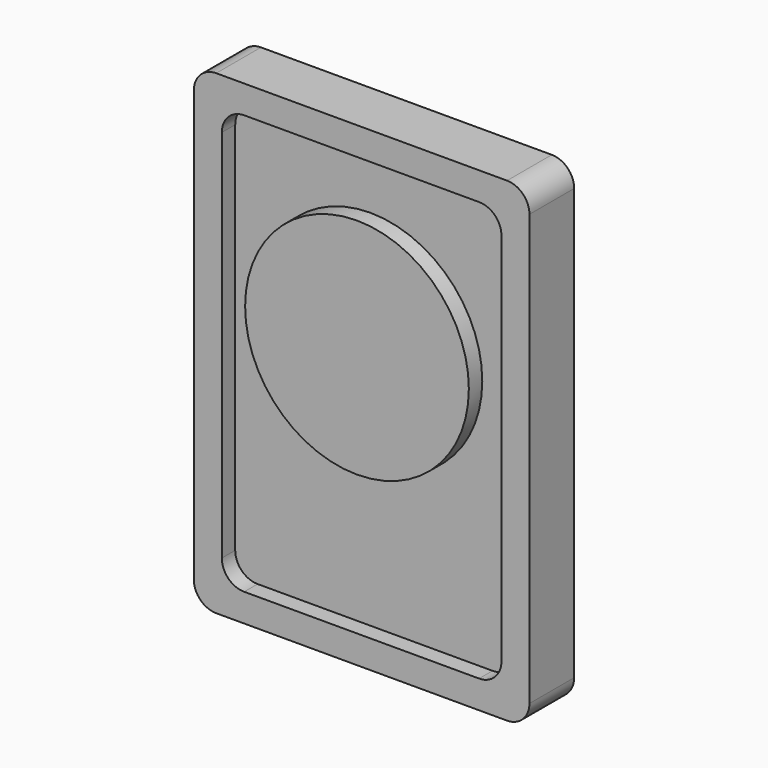
from build123d import *

# Parameters (mm, degrees)
F0_W     = 76.2
F0_H     = 107.95
F1_DEPTH = 12.7
F2_R     = 5.08
F3_W     = 63.5
F3_H     = 95.25
F3_R     = 25.4
F4_DEPTH = 3.81
F5_R     = 5.08


with BuildPart() as f1:
    # F0 (on Front) → F1 (new body)
    with BuildSketch(Plane.XZ):
        with Locations((-9.044009, -26.192475)):
            Rectangle(F0_W, F0_H)
    extrude(amount=F1_DEPTH)

    # F2
    f2_edges = [f1.edges().sort_by_distance(p)[0] for p in [
        (-47.144009, -6.35, 27.782525),
        (29.055991, -6.35, 27.782525),
        (29.055991, -6.35, -80.167475),
        (-47.144009, -6.35, -80.167475),
    ]]
    fillet(f2_edges, radius=F2_R)

    # F3 (on face) → F4 (cut)
    with BuildSketch(Plane.XZ.offset(12.7)):
        with Locations((-9.044009, -26.192475)):
            Rectangle(F3_W, F3_H)
        with Locations((-10.099306, -16.667475)):
            Circle(F3_R, mode=Mode.SUBTRACT)
    extrude(amount=-F4_DEPTH, mode=Mode.SUBTRACT)

    # F5
    f5_edges = [f1.edges().sort_by_distance(p)[0] for p in [
        (-40.794009, -10.795, 21.432525),
        (22.705991, -10.795, 21.432525),
        (22.705991, -10.795, -73.817475),
        (-40.794009, -10.795, -73.817475),
    ]]
    fillet(f5_edges, radius=F5_R)


solid = f1.part
